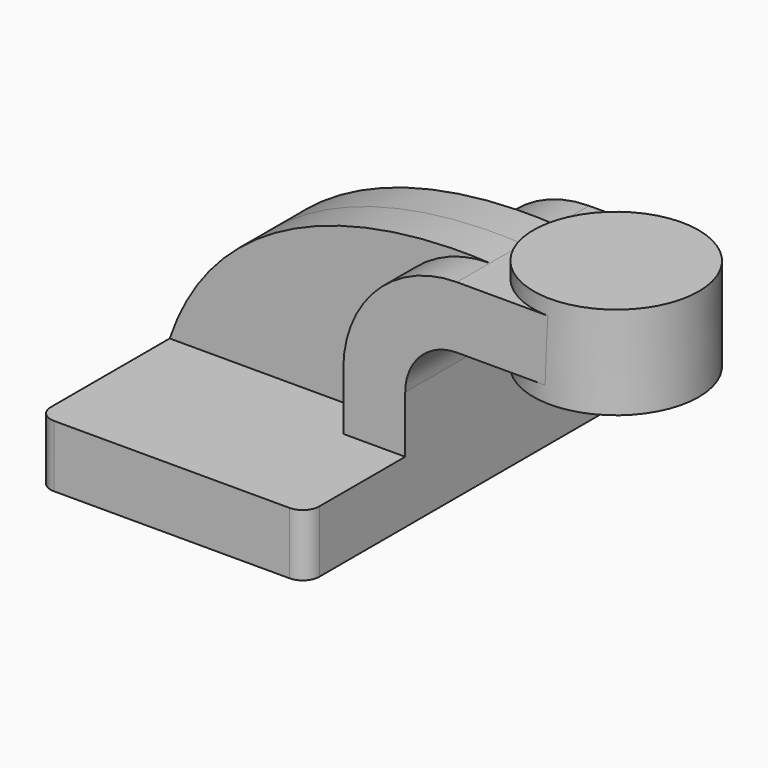
from build123d import *

# Parameters (mm, degrees)
F1_DEPTH = 63.5
F0_W     = 25.348484695
F0_H     = 19.05
F2_DEPTH = 25.4
F3_DEPTH = 12.7
F5_R     = 5.08


with BuildPart() as f1:
    # F0 (on Front) → F1 (new body, symmetric)
    with BuildSketch(Plane.XZ):
        Polygon((22.225, 9.525), (-41.275, 9.525), (-41.275, -9.525), (41.275, -9.525), (41.275, 9.525), align=None)
    extrude(amount=F1_DEPTH, both=True)

    # F0 (on Front) → F2 (join, symmetric)
    with BuildSketch(Plane.XZ):
        with BuildLine():
            Line((22.225, 27.0002), (22.225, 9.525))
            Line((22.225, 9.525), (41.275, 9.525))
            Line((41.275, 9.525), (41.275, 27.0002))
            ThreePointArc((41.275, 27.0002), (45.9246798487, 38.2255201513), (57.15, 42.8752))
            Line((57.15, 42.8752), (60.376515305, 42.8752))
            Line((60.376515305, 42.8752), (60.376515305, 61.9252))
            Line((60.376515305, 61.9252), (57.15, 61.9252))
            ThreePointArc((57.15, 61.9252), (32.4542956671, 51.6959043329), (22.225, 27.0002))
        make_face()
        with Locations((73.0507576525, 52.4002)):
            Rectangle(F0_W, F0_H)
    extrude(amount=F2_DEPTH, both=True)

    # F0 (on Front) → F3 (join, symmetric)
    with BuildSketch(Plane.XZ):
        with BuildLine():
            add(Edge.make_bspline(
                [(-41.275, 9.525), (-27.2249449044, 51.4013841748), (17.066590488, 64.118757844), (57.15, 61.9252)],
                knots=[0, 0, 0, 0, 111.5045361635, 111.5045361635, 111.5045361635, 111.5045361635], degree=3))
            Line((-41.275, 9.525), (22.225, 9.525))
            Line((22.225, 9.525), (22.225, 27.0002))
            ThreePointArc((22.225, 27.0002), (32.4542956671, 51.6959043329), (57.15, 61.9252))
        make_face()
    extrude(amount=F3_DEPTH, both=True)

    # F0 (on Front) → F4 (revolve)
    with BuildSketch(Plane.XZ):
        Polygon((111.176515305, 66.675), (85.776515305, 66.675), (85.725, 38.1), (111.176515305, 38.1), align=None)
    revolve(axis=Axis((85.7507576525, 0, 52.3875), (-0.0018028074, 0, -0.9999983749)))

    # F5
    f5_edges = [f1.edges().sort_by_distance(p)[0] for p in [
        (-41.275, -63.5, 0),
        (41.275, -63.5, 0),
        (41.275, 63.5, 0),
        (-41.275, 63.5, 0),
    ]]
    fillet(f5_edges, radius=F5_R)


solid = f1.part
